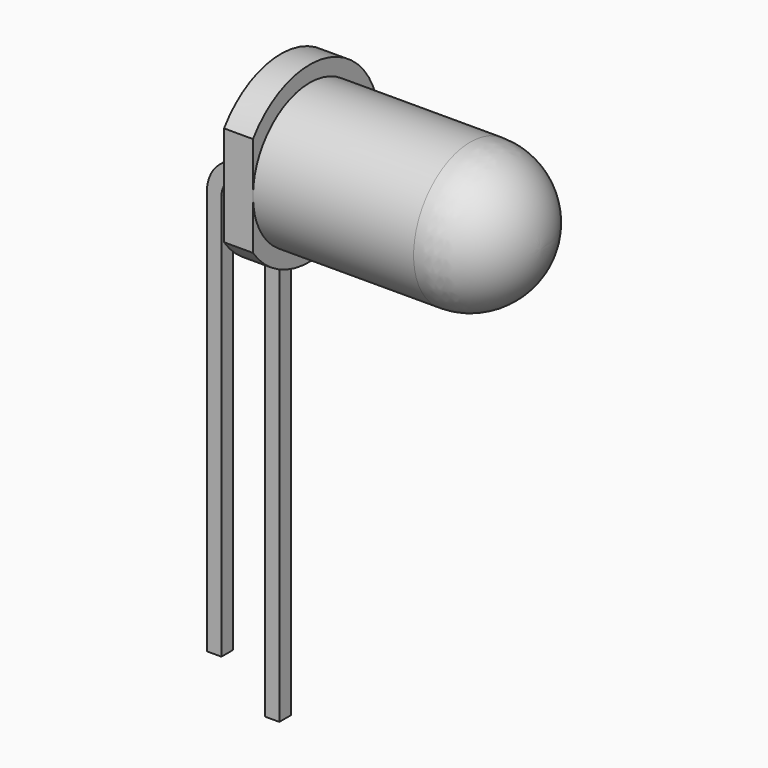
from build123d import *

# Parameters (mm, degrees)
SKETCH005_W              = 0.5
SKETCH005_H              = 0.5
SKETCH006_W              = 0.5
SKETCH006_H              = 0.5
ADDITIVEPIPE001_FACE21_W = 0.5
ADDITIVEPIPE001_FACE21_H = 0.5
PAD001_DEPTH             = 3
POCKET_DEPTH             = 5


with BuildPart() as part:
    # Sketch002 → Revolution (revolve)
    with BuildSketch(Plane.XY):
        with BuildLine():
            Line((0, 2.45), (-5.55, 2.45))
            Line((-5.55, 2.45), (-5.55, 3))
            Line((-5.55, 3), (-6.55, 3))
            Line((-6.55, 3), (-6.55, 0))
            Line((2.45, 0), (-6.55, 0))
            ThreePointArc((2.45, 0), (1.732412, 1.732412), (0, 2.45))
        make_face()
    revolve(axis=Axis((0, 0, 0), (1, 0, 0)))

    # AdditivePipe: sweep along a path in Sketch004
    with BuildLine(Plane.XZ) as additivepipe_path:
        Line((-6.55, 0), (-6.65, 0))
        ThreePointArc((-6.65, 0), (-7.357107, -0.292893), (-7.65, -1))
        Line((-7.65, -1), (-7.65, -15))
    # Sketch005 (on Face4 of Revolution) → AdditivePipe (sweep)
    with BuildSketch(Plane(origin=(-6.55, 0, 0), x_dir=(0, -1, 0), z_dir=(-1, 0, 0))):
        with Locations((1.25, 0)):
            Rectangle(SKETCH005_W, SKETCH005_H)
    sweep(path=additivepipe_path.line)

    # AdditivePipe001: sweep along a path in Sketch004
    with BuildLine(Plane.XZ) as additivepipe001_path:
        Line((-6.55, 0), (-6.65, 0))
        ThreePointArc((-6.65, 0), (-7.357107, -0.292893), (-7.65, -1))
        Line((-7.65, -1), (-7.65, -15))
    # Sketch006 (on Face4 of Revolution) → AdditivePipe001 (sweep)
    with BuildSketch(Plane(origin=(-6.55, 0, 0), x_dir=(0, -1, 0), z_dir=(-1, 0, 0))):
        with Locations((-1.25, 0)):
            Rectangle(SKETCH006_W, SKETCH006_H)
    sweep(path=additivepipe001_path.line)

    # AdditivePipe001 Face21 → Pad001 (new)
    with BuildSketch(Plane(origin=(-7.65, 1.25, -15), x_dir=(0, -1, 0), z_dir=(0, 0, -1))):
        Rectangle(ADDITIVEPIPE001_FACE21_W, ADDITIVEPIPE001_FACE21_H)
    extrude(amount=PAD001_DEPTH)

    # Sketch007 (on Face3 of Pad001) → Pocket (cut)
    with BuildSketch(Plane.YZ.offset(-5.55)):
        with BuildLine():
            Line((-2.45, 1.731329), (-2.45, -1.731329))
            ThreePointArc((-2.45, 1.731329), (-3.000002, 0), (-2.45, -1.731329))
        make_face()
    extrude(amount=-POCKET_DEPTH, mode=Mode.SUBTRACT)


solid = part.part
